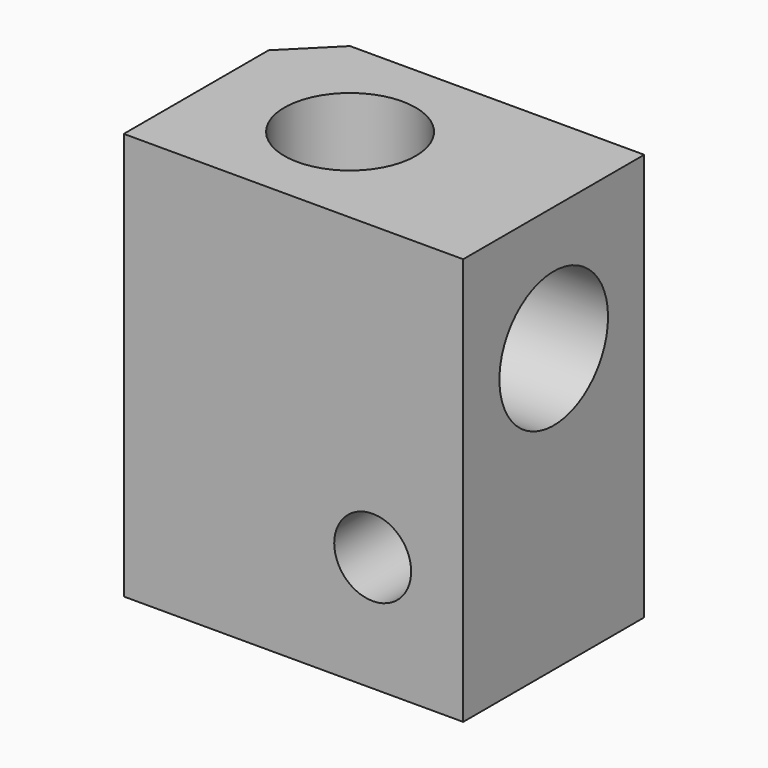
from build123d import *

# Parameters (mm, degrees)
F0_R     = 2.9
F1_DEPTH = 18
F3_R     = 1.7
F4_DEPTH = 10.001
F2_R     = 3
F5_DEPTH = 8


with BuildPart() as f1:
    # F0 (on Top) → F1 (new body)
    with BuildSketch(Plane.XY):
        Polygon((7.5, -5), (7.5, 5), (-5.5, 5), (-7.5, 3), (-7.5, -5), align=None)
        with Locations((-1.5, 0)):
            Circle(F0_R, mode=Mode.SUBTRACT)
    extrude(amount=F1_DEPTH)

    # F3 (on face) → F4 (cut, through all)
    with BuildSketch(Plane(origin=(0, 5, 0), x_dir=(-1, 0, 0), z_dir=(0, 1, 0))):
        with Locations((-3.5, 5.1)):
            Circle(F3_R)
    extrude(amount=-F4_DEPTH, mode=Mode.SUBTRACT)

    # F2 (on face) → F5 (cut)
    with BuildSketch(Plane.YZ.offset(7.5)):
        with Locations((0, 12.5)):
            Circle(F2_R)
    extrude(amount=-F5_DEPTH, mode=Mode.SUBTRACT)


solid = f1.part
